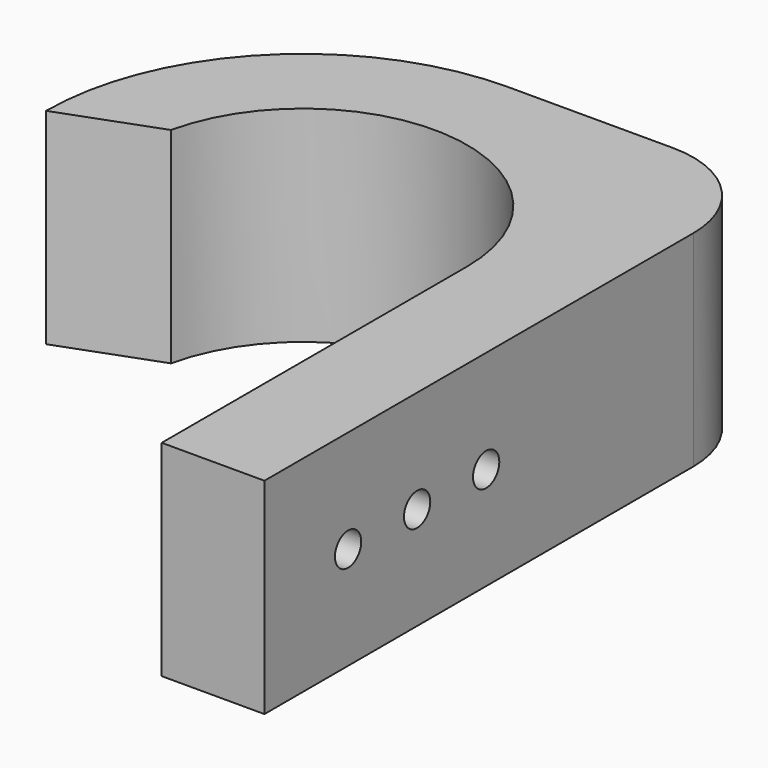
from build123d import *

# Parameters (mm, degrees)
F1_DEPTH = 25.4
F2_R     = 2.032
F3_DEPTH = 12.7


with BuildPart() as f1:
    # F0 (on Top) → F1 (new body)
    with BuildSketch(Plane.XY):
        with BuildLine():
            ThreePointArc((-19.8374, 4.402268), (2.214321, 20.19899), (20.32, 0))
            Line((20.32, 0), (20.32, -47.217399))
            Line((20.32, -47.217399), (33.02, -47.217399))
            Line((33.02, -47.217399), (33.02, 19.05))
            ThreePointArc((33.02, 19.05), (29.300256, 28.030256), (20.32, 31.75))
            Line((20.32, 31.75), (0, 31.75))
            ThreePointArc((0, 31.75), (-22.45064, 22.45064), (-31.75, 0))
            Line((-31.75, 0), (-19.8374, 4.402268))
        make_face()
    extrude(amount=F1_DEPTH)

    # F2 (on face) → F3 (cut, through all)
    with BuildSketch(Plane.YZ.offset(33.02)):
        with Locations((-34.291968, 12.7)):
            Circle(F2_R)
        with Locations((-23.623968, 12.7)):
            Circle(F2_R)
        with Locations((-12.955968, 12.7)):
            Circle(F2_R)
    extrude(amount=-F3_DEPTH, mode=Mode.SUBTRACT)


solid = f1.part
